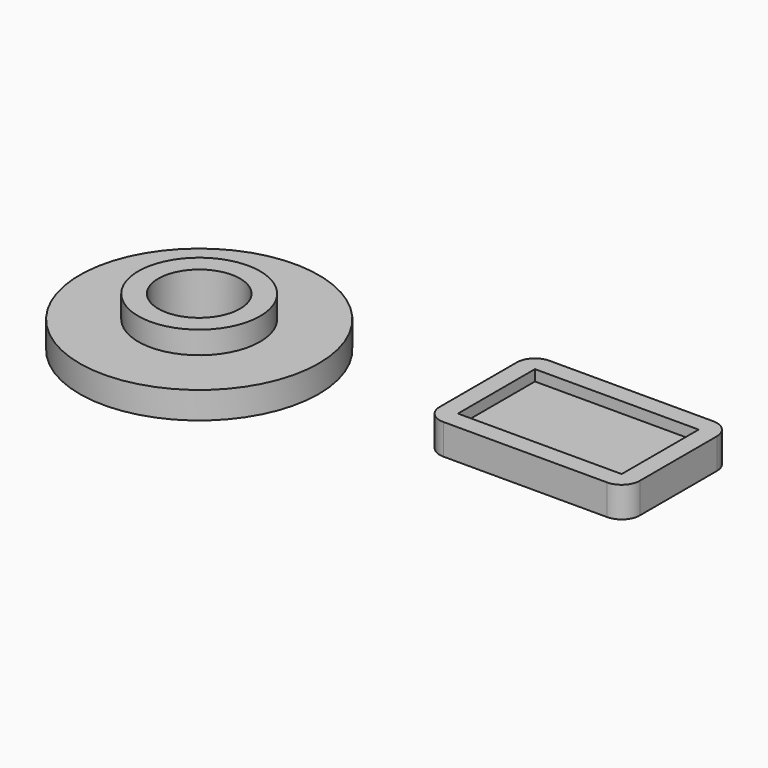
from build123d import *

# Parameters (mm, degrees)
F0_R     = 41.78696
F0_R_2   = 21.278274
F1_DEPTH = 9.398
F0_R_3   = 14.284121
F2_DEPTH = 17.272
F3_W     = 57.203214
F3_H     = 33.630501
F4_DEPTH = 10.668
F5_DEPTH = 6.858


with BuildPart() as f1:
    # F0 (on Top) → F1 (new body)
    with BuildSketch(Plane.XY):
        with Locations((-48.457306, 0)):
            Circle(F0_R)
        with Locations((-48.457306, 0)):
            Circle(F0_R_2, mode=Mode.SUBTRACT)
    extrude(amount=F1_DEPTH)

    # F0 (on Top) → F2 (join)
    with BuildSketch(Plane.XY):
        with Locations((-48.457306, 0)):
            Circle(F0_R_2)
        with Locations((-48.457306, 0)):
            Circle(F0_R_3, mode=Mode.SUBTRACT)
    extrude(amount=F2_DEPTH)


with BuildPart() as f4:
    # F3 (on Top) → F4 (new body)
    with BuildSketch(Plane.XY):
        with BuildLine():
            Line((100.191902, 38.66243), (42.988688, 38.66243))
            ThreePointArc((42.988688, 38.66243), (38.49856, 36.802558), (36.638688, 32.31243))
            Line((36.638688, 32.31243), (36.638688, -1.318071))
            ThreePointArc((36.638688, -1.318071), (38.49856, -5.808199), (42.988688, -7.668071))
            Line((42.988688, -7.668071), (100.191902, -7.668071))
            ThreePointArc((100.191902, -7.668071), (104.68203, -5.808199), (106.541902, -1.318071))
            Line((106.541902, -1.318071), (106.541902, 32.31243))
            ThreePointArc((106.541902, 32.31243), (104.68203, 36.802558), (100.191902, 38.66243))
        make_face()
        with Locations((71.590295, 15.497179)):
            Rectangle(F3_W, F3_H, mode=Mode.SUBTRACT)
    extrude(amount=F4_DEPTH)

    # F3 (on Top) → F5 (join)
    with BuildSketch(Plane.XY):
        with BuildLine():
            Line((100.191902, 38.66243), (42.988688, 38.66243))
            ThreePointArc((42.988688, 38.66243), (38.49856, 36.802558), (36.638688, 32.31243))
            Line((36.638688, 32.31243), (36.638688, -1.318071))
            ThreePointArc((36.638688, -1.318071), (38.49856, -5.808199), (42.988688, -7.668071))
            Line((42.988688, -7.668071), (100.191902, -7.668071))
            ThreePointArc((100.191902, -7.668071), (104.68203, -5.808199), (106.541902, -1.318071))
            Line((106.541902, -1.318071), (106.541902, 32.31243))
            ThreePointArc((106.541902, 32.31243), (104.68203, 36.802558), (100.191902, 38.66243))
        make_face()
        with Locations((71.590295, 15.497179)):
            Rectangle(F3_W, F3_H, mode=Mode.SUBTRACT)
        with Locations((71.590295, 15.497179)):
            Rectangle(F3_W, F3_H)
    extrude(amount=F5_DEPTH)


solid = Compound([f1.part, f4.part])
